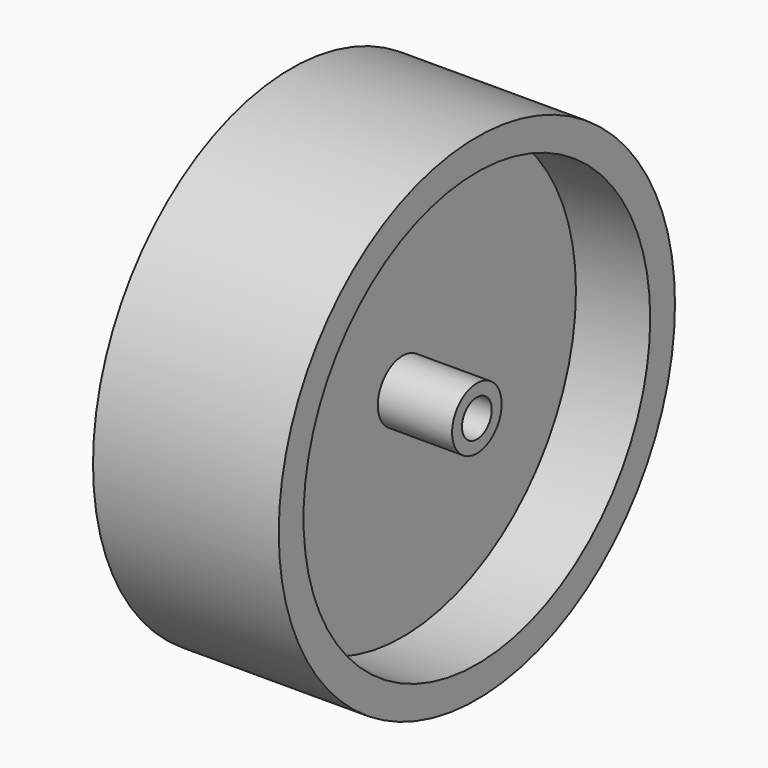
from build123d import *

# Parameters (mm, degrees)
F0_R     = 20
F1_DEPTH = 15
F2_R     = 17.5
F2_R_2   = 2.5
F3_DEPTH = 6
F4_R     = 1.5
F5_DEPTH = 25
F6_R     = 17.5
F6_R_2   = 2.5
F7_DEPTH = 6


with BuildPart() as f1:
    # F0 (on Right) → F1 (new body)
    with BuildSketch(Plane.YZ):
        Circle(F0_R)
    extrude(amount=F1_DEPTH)

    # F2 (on face) → F3 (cut)
    with BuildSketch(Plane.YZ.offset(15)):
        Circle(F2_R)
        Circle(F2_R_2, mode=Mode.SUBTRACT)
    extrude(amount=-F3_DEPTH, mode=Mode.SUBTRACT)

    # F4 (on face) → F5 (cut)
    with BuildSketch(Plane.YZ.offset(15)):
        Circle(F4_R)
    extrude(amount=-F5_DEPTH, mode=Mode.SUBTRACT)

    # F6 (on face) → F7 (cut)
    with BuildSketch(Plane(origin=(0, 0, 0), x_dir=(0, -1, 0), z_dir=(-1, 0, 0))):
        Circle(F6_R)
        Circle(F6_R_2, mode=Mode.SUBTRACT)
    extrude(amount=-F7_DEPTH, mode=Mode.SUBTRACT)


solid = f1.part
